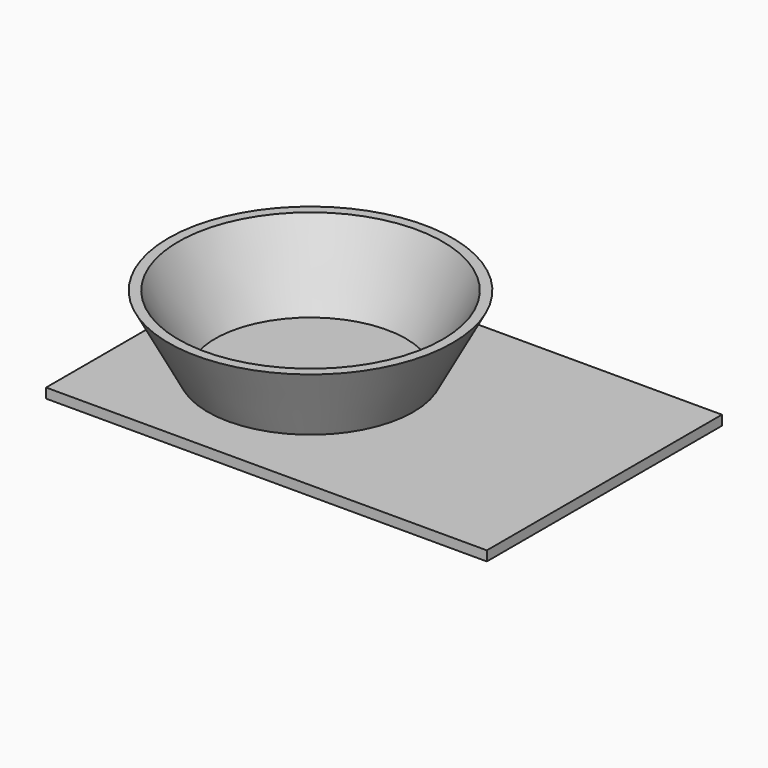
from build123d import *

# Parameters (mm, degrees)
SKETCH_W  = 90
SKETCH_H  = 60
PAD_DEPTH = 2


with BuildPart() as pad:
    # Sketch → Pad (new body)
    with BuildSketch(Plane.XY):
        with Locations((15, 0)):
            Rectangle(SKETCH_W, SKETCH_H)
    extrude(amount=PAD_DEPTH)


with BuildPart() as cone:
    # Cone → Cone (revolve)
    with BuildSketch(Plane.XZ):
        Polygon((0, 0), (19.5, 0), (27, 15), (0, 15), align=None)
    revolve(axis=Axis((0, 0, 0), (0, 0, 1)))


with BuildPart() as fusion:
    # Cone001 → Cone001 (revolve)
    with BuildSketch(Plane.XZ):
        Polygon((0, 0), (21, 0), (29, 15), (0, 15), align=None)
    revolve(axis=Axis((0, 0, 0), (0, 0, 1)))

    # Cut: cut Cone
    add(cone.part, mode=Mode.SUBTRACT)


with BuildPart() as fusion_1:
    # Cut placement: moved
    add(fusion.part.moved(Location((0, 0, 2))))

    # Fusion: union Pad
    add(pad.part)


solid = fusion_1.part
